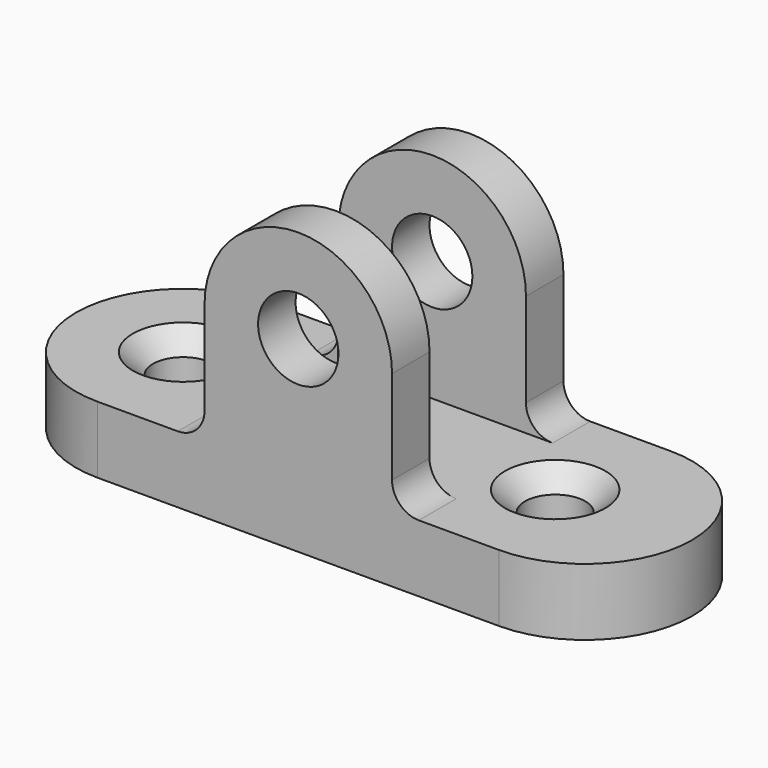
from build123d import *

# Parameters (mm, degrees)
F1_DEPTH       = 127
F2_W           = 711.2
F2_H           = 177.8
F3_DEPTH       = 812.8
F4_D           = 228.6
F4_CSINK_D     = 381
F4_CSINK_ANGLE = 90
F7_DEPTH       = 177.8
F8_DEPTH       = 177.8
F9_D           = 304.8
F11_DEPTH      = 177.8
F13_DEPTH      = 177.8


with BuildPart() as f1:
    # F0 (on Top) → F1 (new body, symmetric)
    with BuildSketch(Plane.XY):
        with BuildLine():
            ThreePointArc((-762, 406.4), (-1168.4, 0), (-762, -406.4))
            Line((-762, -406.4), (762, -406.4))
            ThreePointArc((762, -406.4), (1168.4, 0), (762, 406.4))
            Line((762, 406.4), (-762, 406.4))
        make_face()
    extrude(amount=F1_DEPTH, both=True)

    # F2 (on face) → F3 (join)
    with BuildSketch(Plane.XY.offset(127)):
        with Locations((0, -317.5)):
            Rectangle(F2_W, F2_H)
        with Locations((0, 317.5)):
            Rectangle(F2_W, F2_H)
    extrude(amount=F3_DEPTH)

    # F4 (through all)
    with Locations(Plane.XY.offset(127)):
        with Locations((649.3564248085, 0), (-762, 0)):
            CounterSinkHole(F4_D / 2, F4_CSINK_D / 2, counter_sink_angle=F4_CSINK_ANGLE)

    # F5 (on face) → F7 (cut)
    with BuildSketch(Plane.XZ.offset(406.4)):
        with BuildLine():
            Line((-355.6, 939.8), (-355.6, 584.2))
            ThreePointArc((-355.6, 584.2), (-251.4471708218, 835.6471719581), (1.6069e-06, 939.8))
            Line((1.6069e-06, 939.8), (-355.6, 939.8))
        make_face()
        with BuildLine():
            ThreePointArc((1.6069e-06, 939.8), (251.4471719581, 835.6471708218), (355.6, 584.2))
            Line((355.6, 584.2), (355.6, 939.8))
            Line((355.6, 939.8), (1.6069e-06, 939.8))
        make_face()
    extrude(amount=-F7_DEPTH, mode=Mode.SUBTRACT)

    # F6 (on face) → F8 (cut)
    with BuildSketch(Plane(origin=(0, 406.4, 0), x_dir=(-1, 0, 0), z_dir=(0, 1, 0))):
        with BuildLine():
            Line((-355.6, 939.8), (-355.6, 584.2))
            ThreePointArc((-355.6, 584.2), (-251.4471708218, 835.6471719581), (1.6069e-06, 939.8))
            Line((1.6069e-06, 939.8), (-355.6, 939.8))
        make_face()
        with BuildLine():
            ThreePointArc((1.6069e-06, 939.8), (251.4471719581, 835.6471708218), (355.6, 584.2))
            Line((355.6, 584.2), (355.6, 939.8))
            Line((355.6, 939.8), (1.6069e-06, 939.8))
        make_face()
    extrude(amount=-F8_DEPTH, mode=Mode.SUBTRACT)

    # F9 (through all)
    with Locations(Plane(origin=(0, 406.4, 0), x_dir=(-1, 0, 0), z_dir=(0, 1, 0))):
        with Locations((0, 584.2)):
            Hole(F9_D / 2)

    # F10 (on face) → F11 (join)
    with BuildSketch(Plane.XZ.offset(406.4)):
        with BuildLine():
            Line((-457.2, 127), (-355.6, 127))
            Line((-355.6, 127), (-355.6, 228.6))
            ThreePointArc((-355.6, 228.6), (-385.3579510314, 156.7579510314), (-457.2, 127))
        make_face()
        with BuildLine():
            ThreePointArc((457.2, 127), (385.3579510314, 156.7579510314), (355.6, 228.6))
            Line((355.6, 228.6), (355.6, 127))
            Line((355.6, 127), (457.2, 127))
        make_face()
    extrude(amount=-F11_DEPTH)

    # F12 (on face) → F13 (join)
    with BuildSketch(Plane(origin=(0, 406.4, 0), x_dir=(-1, 0, 0), z_dir=(0, 1, 0))):
        with BuildLine():
            Line((-355.6, 127), (-355.6, 228.6))
            ThreePointArc((-355.6, 228.6), (-385.3579510314, 156.7579510314), (-457.2, 127))
            Line((-457.2, 127), (-355.6, 127))
        make_face()
        with BuildLine():
            ThreePointArc((458.4309247494, 127), (386.5888757808, 156.7579510314), (356.8309247494, 228.6))
            Line((356.8309247494, 228.6), (356.8309247494, 127))
            Line((356.8309247494, 127), (458.4309247494, 127))
        make_face()
    extrude(amount=-F13_DEPTH)


solid = f1.part
